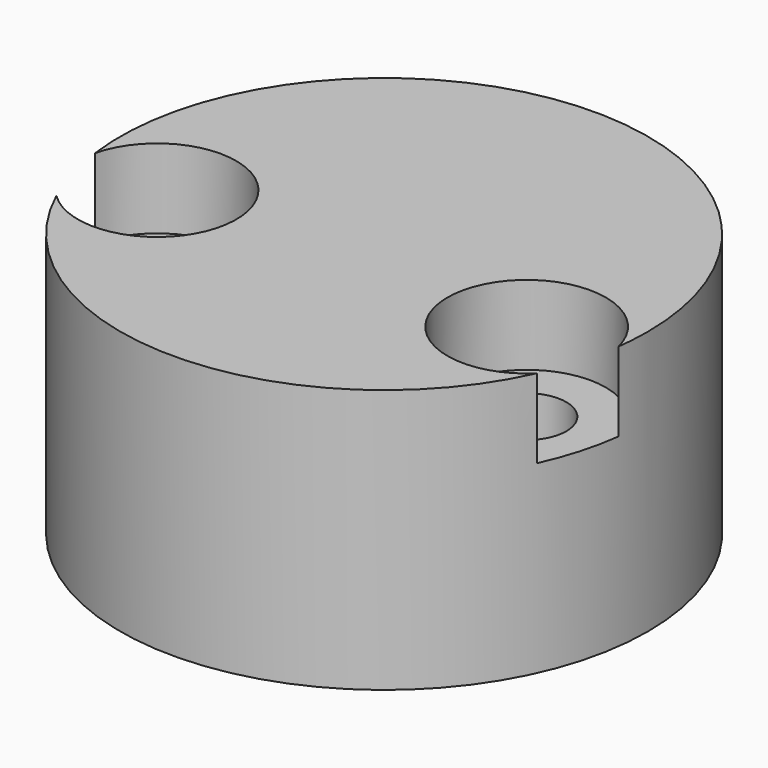
from build123d import *

# Parameters (mm, degrees)
CYLINDER568_R               = 3
CYLINDER568_DEPTH           = 4
CYLINDER569_R               = 3
CYLINDER569_DEPTH           = 4
CYLINDER563_R               = 3
CYLINDER563_DEPTH           = 4
CYLINDER570_R               = 3
CYLINDER570_DEPTH           = 4
COMPOUND332_PLACEMENT_ANGLE = 90
CYLINDER566_R               = 1.5
CYLINDER566_DEPTH           = 20
CYLINDER565_R               = 1.5
CYLINDER565_DEPTH           = 20
CYLINDER567_R               = 1.5
CYLINDER567_DEPTH           = 20
CYLINDER564_R               = 1.5
CYLINDER564_DEPTH           = 20
COMPOUND333_PLACEMENT_ANGLE = 90
CYLINDER534_R               = 10
CYLINDER534_DEPTH           = 10


with BuildPart() as obj1:
    # Cylinder568 → Cylinder568 (new body)
    with BuildSketch(Plane(origin=(-7, -34, 37), x_dir=(1, 0, 0), z_dir=(0, -1, 0))):
        Circle(CYLINDER568_R)
    extrude(amount=CYLINDER568_DEPTH)


with BuildPart() as obj2:
    # Cylinder569 → Cylinder569 (new body)
    with BuildSketch(Plane(origin=(7, -34, 73), x_dir=(1, 0, 0), z_dir=(0, -1, 0))):
        Circle(CYLINDER569_R)
    extrude(amount=CYLINDER569_DEPTH)


with BuildPart() as obj3:
    # Cylinder563 → Cylinder563 (new body)
    with BuildSketch(Plane(origin=(-7, -34, 73), x_dir=(1, 0, 0), z_dir=(0, -1, 0))):
        Circle(CYLINDER563_R)
    extrude(amount=CYLINDER563_DEPTH)


with BuildPart() as compound332:
    # Cylinder570 → Cylinder570 (new body)
    with BuildSketch(Plane(origin=(7, -34, 37), x_dir=(1, 0, 0), z_dir=(0, -1, 0))):
        Circle(CYLINDER570_R)
    extrude(amount=CYLINDER570_DEPTH)

    # Compound332: union obj1, obj2, obj3
    add(obj1.part)
    add(obj2.part)
    add(obj3.part)


with BuildPart() as compound332_1:
    # Compound332 placement: moved
    add(compound332.part.moved(Location((0, 141, 45))).rotate(Axis((0, 141, 45), (1, 0, 0)), COMPOUND332_PLACEMENT_ANGLE))


with BuildPart() as obj4:
    # Cylinder566 → Cylinder566 (new body)
    with BuildSketch(Plane(origin=(-7, -34, 37), x_dir=(1, 0, 0), z_dir=(0, -1, 0))):
        Circle(CYLINDER566_R)
    extrude(amount=CYLINDER566_DEPTH)


with BuildPart() as obj5:
    # Cylinder565 → Cylinder565 (new body)
    with BuildSketch(Plane(origin=(7, -34, 73), x_dir=(1, 0, 0), z_dir=(0, -1, 0))):
        Circle(CYLINDER565_R)
    extrude(amount=CYLINDER565_DEPTH)


with BuildPart() as obj6:
    # Cylinder567 → Cylinder567 (new body)
    with BuildSketch(Plane(origin=(-7, -34, 73), x_dir=(1, 0, 0), z_dir=(0, -1, 0))):
        Circle(CYLINDER567_R)
    extrude(amount=CYLINDER567_DEPTH)


with BuildPart() as compound333:
    # Cylinder564 → Cylinder564 (new body)
    with BuildSketch(Plane(origin=(7, -34, 37), x_dir=(1, 0, 0), z_dir=(0, -1, 0))):
        Circle(CYLINDER564_R)
    extrude(amount=CYLINDER564_DEPTH)

    # Compound333: union obj4, obj5, obj6
    add(obj4.part)
    add(obj5.part)
    add(obj6.part)


with BuildPart() as compound333_1:
    # Compound333 placement: moved
    add(compound333.part.moved(Location((0, 141, 45))).rotate(Axis((0, 141, 45), (1, 0, 0)), COMPOUND333_PLACEMENT_ANGLE))


with BuildPart() as cut190:
    # Cylinder534 → Cylinder534 (new body)
    with BuildSketch(Plane(origin=(0, 106, 0), x_dir=(1, 0, 0), z_dir=(0, 0, 1))):
        Circle(CYLINDER534_R)
    extrude(amount=CYLINDER534_DEPTH)

    # Cut189: cut Compound333
    add(compound333_1.part, mode=Mode.SUBTRACT)

    # Cut190: cut Compound332
    add(compound332_1.part, mode=Mode.SUBTRACT)


with BuildPart() as cut190_1:
    # Cut190 placement: moved
    add(cut190.part.moved(Location((0, 13, 0))))


solid = cut190_1.part
